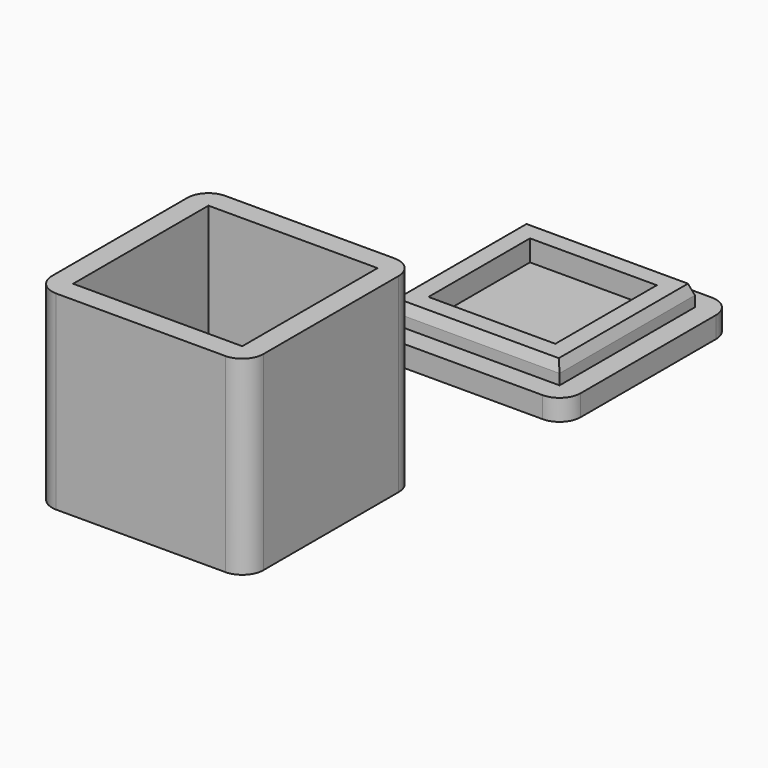
from build123d import *

# Parameters (mm, degrees)
F0_W     = 20.32
F0_H     = 20.32
F1_DEPTH = 22.86
F2_DEPTH = 2.54
F3_DEPTH = 2.54
F0_W_2   = 15.24
F0_H_2   = 15.24
F4_DEPTH = 5.08
F5_DEPTH = 2.54
F6_SIZE2 = 0.462242
F6_SIZE  = 1.27


with BuildPart() as f1:
    # F0 (on Top) → F1 (new body)
    with BuildSketch(Plane.XY):
        with BuildLine():
            Line((10.16, 12.7), (-10.16, 12.7))
            ThreePointArc((-10.16, 12.7), (-11.956051, 11.956051), (-12.7, 10.16))
            Line((-12.7, 10.16), (-12.7, -10.16))
            ThreePointArc((-12.7, -10.16), (-11.956051, -11.956051), (-10.16, -12.7))
            Line((-10.16, -12.7), (10.16, -12.7))
            ThreePointArc((10.16, -12.7), (11.956051, -11.956051), (12.7, -10.16))
            Line((12.7, -10.16), (12.7, 10.16))
            ThreePointArc((12.7, 10.16), (11.956051, 11.956051), (10.16, 12.7))
        make_face()
        Rectangle(F0_W, F0_H, mode=Mode.SUBTRACT)
    extrude(amount=F1_DEPTH)

    # F0 (on Top) → F2 (join)
    with BuildSketch(Plane.XY):
        Rectangle(F0_W, F0_H)
    extrude(amount=F2_DEPTH)


with BuildPart() as f3:
    # F0 (on Top) → F3 (new body)
    with BuildSketch(Plane.XY):
        with BuildLine():
            Line((13.988516, 55.561309), (-6.331484, 55.561309))
            ThreePointArc((-6.331484, 55.561309), (-8.127535, 54.81736), (-8.871484, 53.021309))
            Line((-8.871484, 53.021309), (-8.871484, 32.701309))
            ThreePointArc((-8.871484, 32.701309), (-8.127535, 30.905258), (-6.331484, 30.161309))
            Line((-6.331484, 30.161309), (13.988516, 30.161309))
            ThreePointArc((13.988516, 30.161309), (15.784567, 30.905258), (16.528516, 32.701309))
            Line((16.528516, 32.701309), (16.528516, 53.021309))
            ThreePointArc((16.528516, 53.021309), (15.784567, 54.81736), (13.988516, 55.561309))
        make_face()
        with Locations((3.828516, 42.861309)):
            Rectangle(F0_W, F0_H, mode=Mode.SUBTRACT)
    extrude(amount=F3_DEPTH)

    # F0 (on Top) → F4 (join)
    with BuildSketch(Plane.XY):
        with Locations((3.828516, 42.861309)):
            Rectangle(F0_W, F0_H)
        with Locations((3.828516, 42.861309)):
            Rectangle(F0_W_2, F0_H_2, mode=Mode.SUBTRACT)
    extrude(amount=F4_DEPTH)

    # F0 (on Top) → F5 (join)
    with BuildSketch(Plane.XY):
        with Locations((3.828516, 42.861309)):
            Rectangle(F0_W_2, F0_H_2)
    extrude(amount=F5_DEPTH)

    # F6
    f6_edges = [f3.edges().sort_by_distance(p)[0] for p in [
        (13.988516, 42.861309, 5.08),
        (3.828516, 32.701309, 5.08),
        (3.828516, 53.021309, 5.08),
        (-6.331484, 42.861309, 5.08),
    ]]
    chamfer(f6_edges, length=F6_SIZE, length2=F6_SIZE2)


solid = Compound([f1.part, f3.part])
